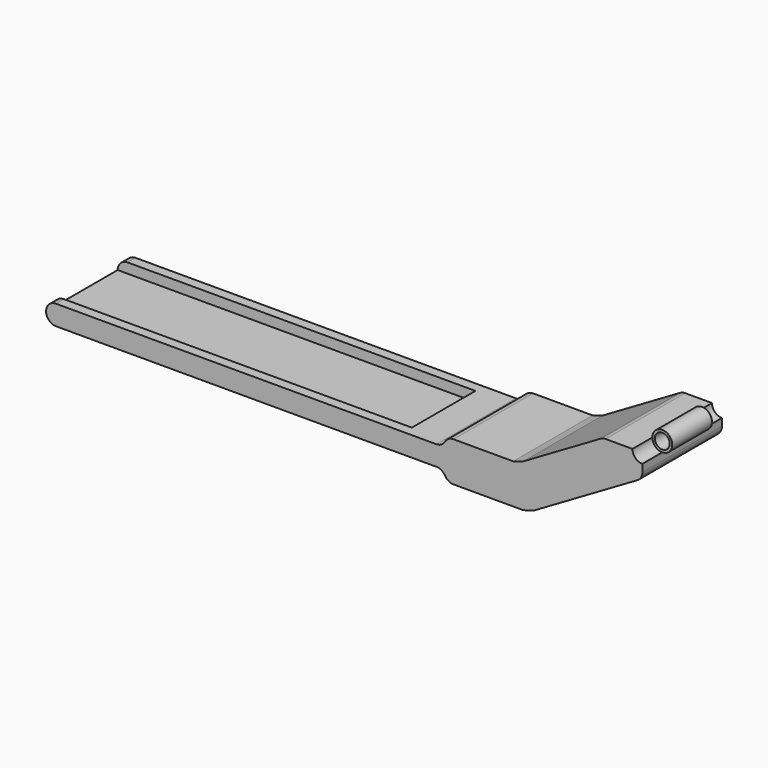
from build123d import *

# Parameters (mm, degrees)
F1_DEPTH      = 31.75
F1_DEPTH_BACK = 31.75
F2_DEPTH      = 25.4
F2_DEPTH_BACK = 25.4
F3_R          = 6.35
F4_DEPTH      = 15.875
F5_R          = 6.35
F6_DEPTH      = 15.875
F7_W          = 186.001042
F7_H          = 50.8
F7_W_2        = 67.998958
F8_DEPTH      = 44.45


with BuildPart() as f1:
    # F0 (on Front) → F1 (new body, two sides)
    with BuildSketch(Plane.XZ) as f1_sk:
        with BuildLine():
            Line((0, -11.055585), (0, -6.35))
            ThreePointArc((0, -6.35), (4.490128, 4.490128), (-6.35, 0))
            Line((-6.35, 0), (-23.488146, 0))
            ThreePointArc((-23.488146, 0), (-25.145368, -0.220064), (-26.687727, -0.865004))
            Line((-26.687727, -0.865004), (-76.2, -29.747163))
            Line((-76.2, -29.747163), (-82.599162, -31.75))
            Line((-82.599162, -31.75), (-120.65, -31.75))
            ThreePointArc((-120.65, -31.75), (-123.825, -32.600739), (-126.149261, -34.925))
            ThreePointArc((-126.149261, -34.925), (-128.473523, -37.249261), (-131.648523, -38.1))
            Line((-131.648523, -38.1), (-152.4, -38.1))
            Line((-152.4, -38.1), (-355.6, -38.1))
            Line((-355.6, -38.1), (-374.65, -38.1))
            ThreePointArc((-374.65, -38.1), (-379.140128, -39.959872), (-381, -44.45))
            ThreePointArc((-381, -44.45), (-379.140128, -48.940128), (-374.65, -50.8))
            Line((-374.65, -50.8), (-131.648523, -50.8))
            ThreePointArc((-131.648523, -50.8), (-128.473523, -51.650739), (-126.149261, -53.975))
            ThreePointArc((-126.149261, -53.975), (-123.825, -56.299261), (-120.65, -57.15))
            Line((-120.65, -57.15), (-76.2, -57.15))
            Line((-76.2, -57.15), (-69.800838, -55.419992))
            Line((-69.800838, -55.419992), (-3.150419, -16.540581))
            ThreePointArc((-3.150419, -16.540581), (-0.843647, -14.218271), (0, -11.055585))
        make_face()
        with BuildLine():
            ThreePointArc((-4.7625, 0), (0, 4.7625), (4.7625, 0))
            ThreePointArc((4.7625, 0), (0, -4.7625), (-4.7625, 0))
        make_face(mode=Mode.SUBTRACT)
    extrude(amount=F1_DEPTH)
    extrude(f1_sk.sketch, amount=-F1_DEPTH_BACK)

    # F0 (on Front) → F2 (join, two sides)
    with BuildSketch(Plane.XZ) as f2_sk:
        with BuildLine():
            ThreePointArc((-4.7625, 0), (0, -4.7625), (4.7625, 0))
            ThreePointArc((4.7625, 0), (0, 4.7625), (-4.7625, 0))
        make_face()
        with BuildLine():
            Line((0, -11.055585), (0, -6.35))
            ThreePointArc((0, -6.35), (4.490128, 4.490128), (-6.35, 0))
            Line((-6.35, 0), (-23.488146, 0))
            ThreePointArc((-23.488146, 0), (-25.145368, -0.220064), (-26.687727, -0.865004))
            Line((-26.687727, -0.865004), (-76.2, -29.747163))
            Line((-76.2, -29.747163), (-82.599162, -31.75))
            Line((-82.599162, -31.75), (-120.65, -31.75))
            ThreePointArc((-120.65, -31.75), (-123.825, -32.600739), (-126.149261, -34.925))
            ThreePointArc((-126.149261, -34.925), (-128.473523, -37.249261), (-131.648523, -38.1))
            Line((-131.648523, -38.1), (-152.4, -38.1))
            Line((-152.4, -38.1), (-355.6, -38.1))
            Line((-355.6, -38.1), (-374.65, -38.1))
            ThreePointArc((-374.65, -38.1), (-379.140128, -39.959872), (-381, -44.45))
            ThreePointArc((-381, -44.45), (-379.140128, -48.940128), (-374.65, -50.8))
            Line((-374.65, -50.8), (-131.648523, -50.8))
            ThreePointArc((-131.648523, -50.8), (-128.473523, -51.650739), (-126.149261, -53.975))
            ThreePointArc((-126.149261, -53.975), (-123.825, -56.299261), (-120.65, -57.15))
            Line((-120.65, -57.15), (-76.2, -57.15))
            Line((-76.2, -57.15), (-69.800838, -55.419992))
            Line((-69.800838, -55.419992), (-3.150419, -16.540581))
            ThreePointArc((-3.150419, -16.540581), (-0.843647, -14.218271), (0, -11.055585))
        make_face()
        with BuildLine():
            ThreePointArc((-4.7625, 0), (0, 4.7625), (4.7625, 0))
            ThreePointArc((4.7625, 0), (0, -4.7625), (-4.7625, 0))
        make_face(mode=Mode.SUBTRACT)
        with BuildLine():
            Line((-355.6, -38.1), (-152.4, -38.1))
            Line((-152.4, -38.1), (-152.4, 0))
            Line((-152.4, 0), (-220.398958, 0))
            ThreePointArc((-220.398958, 0), (-226.142749, -1.926679), (-229.562879, -6.927273))
            ThreePointArc((-229.562879, -6.927273), (-254, -25.4), (-278.437121, -6.927273))
            ThreePointArc((-278.437121, -6.927273), (-281.857251, -1.926679), (-287.601042, 0))
            Line((-287.601042, 0), (-355.6, 0))
            Line((-355.6, 0), (-355.6, -38.1))
        make_face()
    extrude(amount=F2_DEPTH)
    extrude(f2_sk.sketch, amount=-F2_DEPTH_BACK)

    # F3 (on face) → F4 (cut)
    with BuildSketch(Plane(origin=(0, 31.75, 0), x_dir=(-1, 0, 0), z_dir=(0, 1, 0))):
        Circle(F3_R)
    extrude(amount=-F4_DEPTH, mode=Mode.SUBTRACT)

    # F5 (on face) → F6 (cut)
    with BuildSketch(Plane.XZ.offset(31.75)):
        Circle(F5_R)
    extrude(amount=-F6_DEPTH, mode=Mode.SUBTRACT)

    # F7 (on face) → F8 (cut)
    with BuildSketch(Plane.XY):
        with Locations((-313.399479, 0)):
            Rectangle(F7_W, F7_H)
        with Locations((-186.399479, 0)):
            Rectangle(F7_W_2, F7_H)
    extrude(amount=-F8_DEPTH, mode=Mode.SUBTRACT)


solid = f1.part
